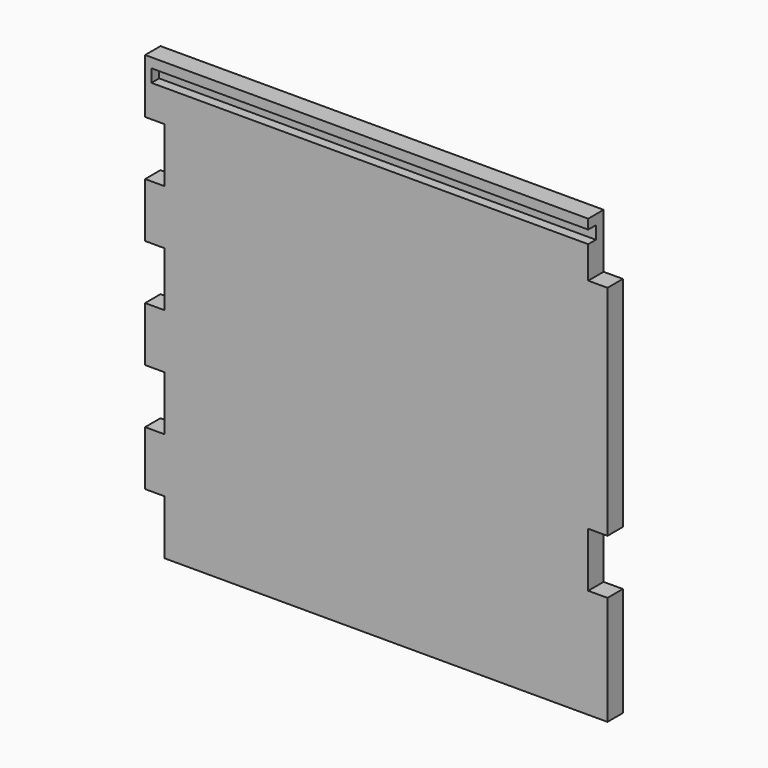
from build123d import *

# Parameters (mm, degrees)
F1_DEPTH = 19.05
F2_W     = 9.525
F2_H     = 12.7
F3_DEPTH = 431.8


with BuildPart() as f1:
    # F0 (on Front) → F1 (new body)
    with BuildSketch(Plane.XZ):
        Polygon((19.05, 53.975), (19.05, 0), (457.112221, 0), (457.112221, 107.95), (438.062221, 107.95), (438.062221, 161.925), (457.112221, 161.925), (457.112221, 377.825), (438.062221, 377.825), (438.062221, 431.8), (0, 431.8), (0, 377.825), (19.05, 377.825), (19.05, 323.85), (0, 323.85), (0, 269.875), (19.05, 269.875), (19.05, 215.9), (0, 215.9), (0, 161.925), (19.05, 161.925), (19.05, 107.95), (0, 107.95), (0, 53.975), align=None)
    extrude(amount=F1_DEPTH)

    # F2 (on face) → F3 (cut)
    with BuildSketch(Plane.YZ.offset(438.062221)):
        with Locations((-14.2875, 415.925)):
            Rectangle(F2_W, F2_H)
    extrude(amount=-F3_DEPTH, mode=Mode.SUBTRACT)


solid = f1.part
